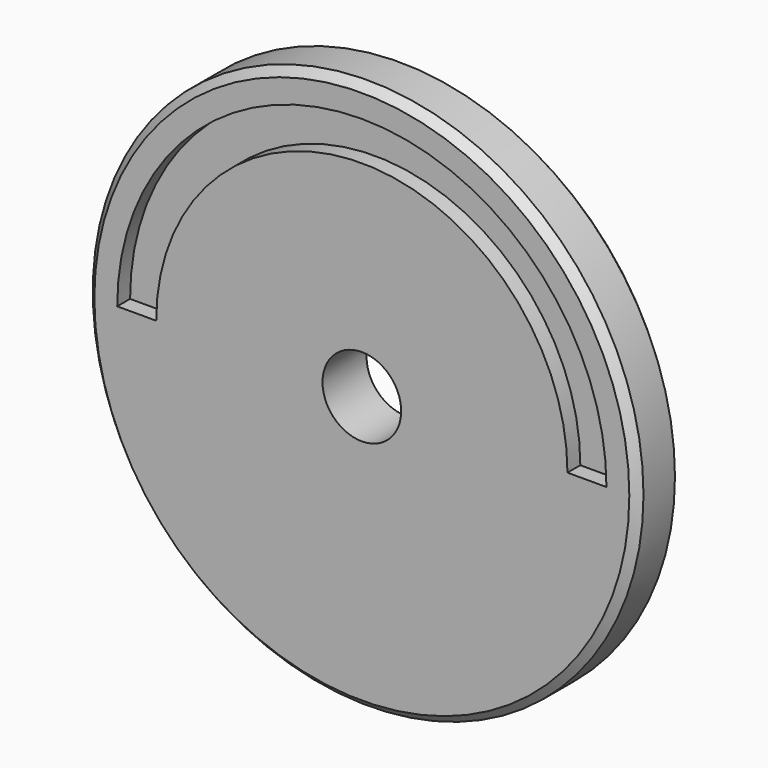
from build123d import *

# Parameters (mm, degrees)
F0_R     = 175
F1_DEPTH = 35
F3_D     = 50
F4_SIZE  = 5
F6_DEPTH = 10.21899


with BuildPart() as f1:
    # F0 (on Front) → F1 (new body)
    with BuildSketch(Plane.XZ):
        Circle(F0_R)
    extrude(amount=F1_DEPTH)

    # F3 (through all)
    with Locations(Plane.XZ.offset(35)):
        with Locations((0, 0)):
            Hole(F3_D / 2)

    # F4
    f4_edges = [f1.edges().sort_by_distance(p)[0] for p in [
        (-175, -35, 0),
        (-175, 0, 0),
    ]]
    chamfer(f4_edges, length=F4_SIZE)

    # F5 (on face) → F6 (cut)
    with BuildSketch(Plane.XZ.offset(35)):
        with BuildLine():
            Line((-155.457131, 0), (-130.677676, 0))
            ThreePointArc((-130.677676, 0), (0, 130.677676), (130.677676, 0))
            Line((130.677676, 0), (155.457131, 0))
            ThreePointArc((155.457131, 0), (0, 155.457131), (-155.457131, 0))
        make_face()
    extrude(amount=-F6_DEPTH, mode=Mode.SUBTRACT)


solid = f1.part
